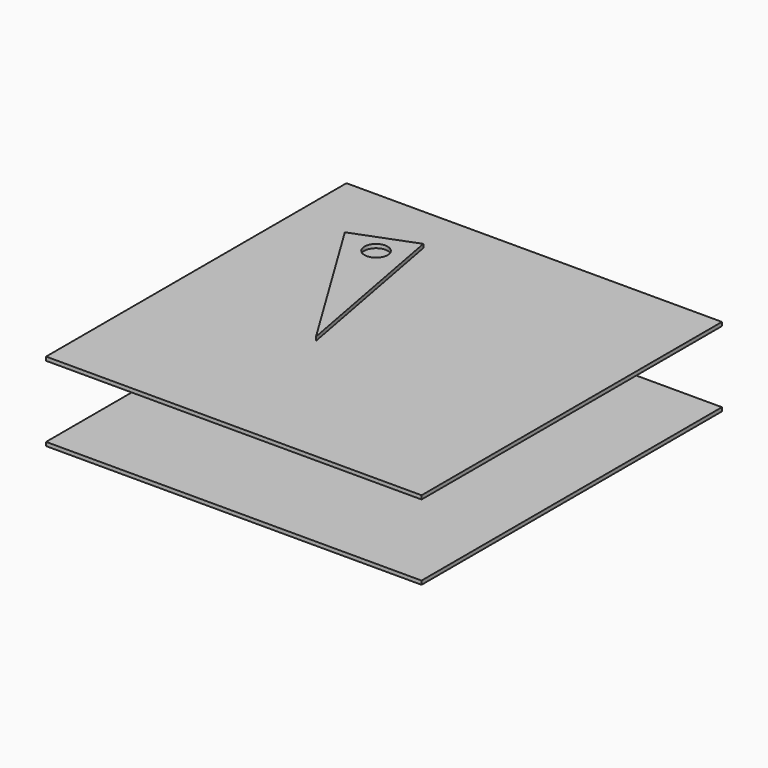
from build123d import *

# Parameters (mm, degrees)
BOX_W           = 100
BOX_H           = 100
BOX_DEPTH       = 1
BOX001_W        = 100
BOX001_H        = 100
BOX001_DEPTH    = 1
PAD_DEPTH       = 1
SKETCH004_R     = 3.0838
POCKET003_DEPTH = 1


with BuildPart() as cube:
    # Box → Box (new body)
    with BuildSketch(Plane.XY):
        with Locations((50, 50)):
            Rectangle(BOX_W, BOX_H)
    extrude(amount=BOX_DEPTH)


with BuildPart() as cube001:
    # Box001 → Box001 (new body)
    with BuildSketch(Plane.XY.offset(20)):
        with Locations((50, 50)):
            Rectangle(BOX001_W, BOX001_H)
    extrude(amount=BOX001_DEPTH)


with BuildPart() as pocket003:
    # Sketch003 → Pad (new body)
    with BuildSketch(Plane.XY.offset(40)):
        Polygon((62.239094, 12.053726), (53.547153, 58.650245), (37.554805, 52.519406), align=None)
    extrude(amount=PAD_DEPTH)

    # Sketch004 → Pocket003 (cut)
    with BuildSketch(Plane.XY.offset(41)):
        with Locations((47.828934, 50.07093)):
            Circle(SKETCH004_R)
    extrude(amount=-POCKET003_DEPTH, mode=Mode.SUBTRACT)


solid = Compound([cube.part, cube001.part, pocket003.part])
